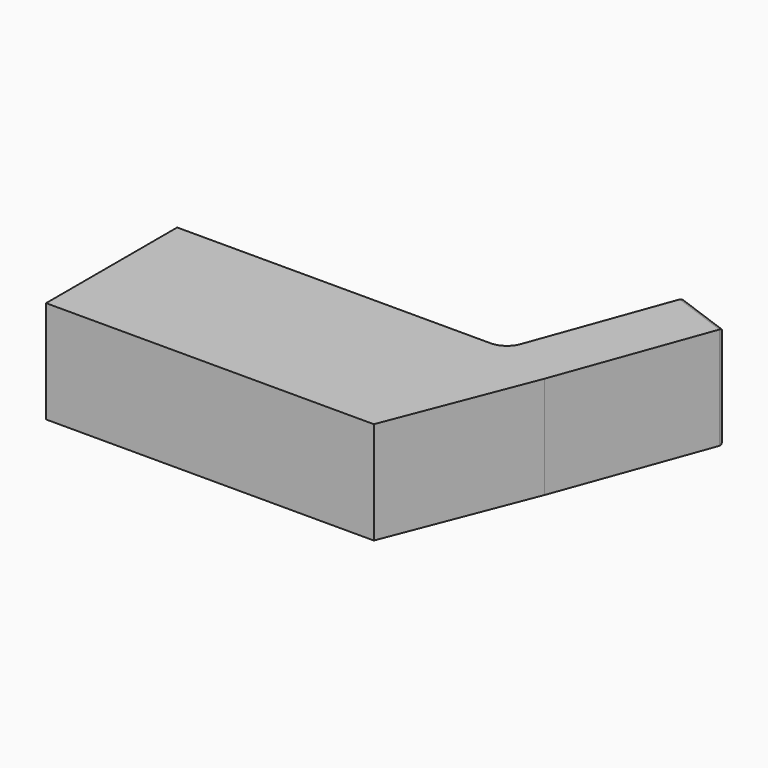
from build123d import *

# Parameters (mm, degrees)
F0_W     = 80
F0_H     = 40
F1_DEPTH = 25
F2_R     = 4
F3_DEPTH = 25
F4_R     = 5
F5_R     = 1


with BuildPart() as f1:
    # F0 (on Top) → F1 (new body)
    with BuildSketch(Plane.XY):
        with Locations((0.1769823041, 3.2334145788)):
            Rectangle(F0_W, F0_H)
        Polygon((40.1769823041, 23.2334145788), (40.1769823041, -16.7665854212), (53.8577880371, 18.2540085112), align=None)
        Polygon((53.8577880371, 60.8211194103), (40.1769823041, 23.2334145788), (53.8577880371, 18.2540085112), (67.5385937702, 55.8417133427), align=None)
    extrude(amount=F1_DEPTH)

    # F2 (on face) → F3 (cut)
    with BuildSketch(Plane(origin=(25.8476953784, 71.0159593971, 0), x_dir=(-0.9396926208, 0.3420201433, 0), z_dir=(0.3420201433, 0.9396926208, 0))):
        with Locations((-37.0871226977, 12.5)):
            Circle(F2_R)
        with Locations((-37.0871226977, 12.5)):
            Circle(F2_R)
    extrude(amount=-F3_DEPTH, mode=Mode.SUBTRACT)

    # F4
    f4_edges = [f1.edges().sort_by_distance(p)[0] for p in [
        (40.176982, 23.233415, 12.5),
    ]]
    fillet(f4_edges, radius=F4_R)

    # F5
    f5_edges = [f1.edges().sort_by_distance(p)[0] for p in [
        (67.538594, 55.841713, 12.5),
        (60.698191, 58.331416, 0),
        (53.857788, 60.821119, 12.5),
        (60.698191, 58.331416, 25),
    ]]
    fillet(f5_edges, radius=F5_R)


solid = f1.part
